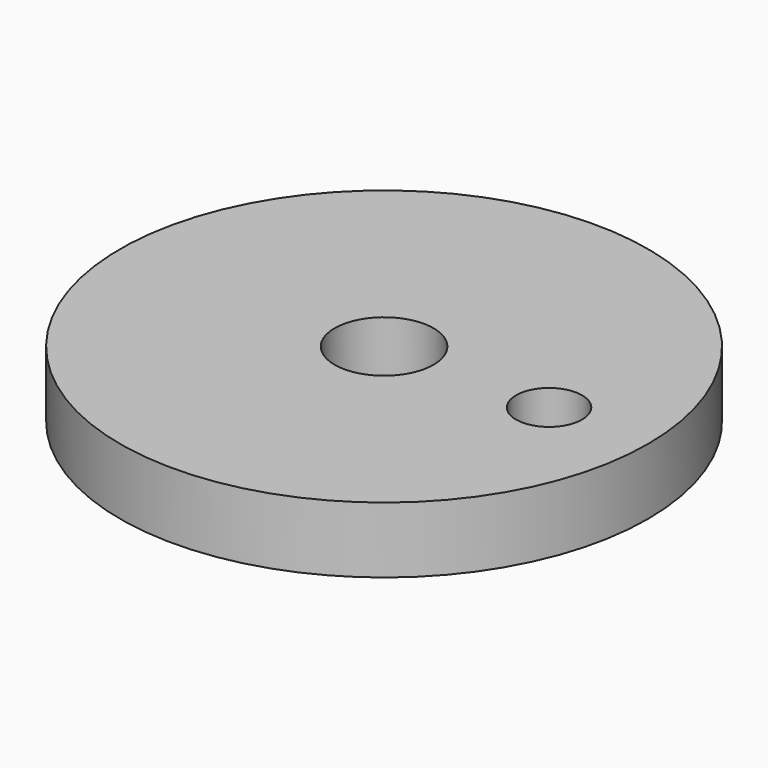
from build123d import *

# Parameters (mm, degrees)
F0_R     = 40
F1_DEPTH = 10
F4_D     = 10
F5_D     = 15


with BuildPart() as f1:
    # F0 (on Top) → F1 (new body)
    with BuildSketch(Plane.XY):
        Circle(F0_R)
    extrude(amount=F1_DEPTH)

    # F4 (through all)
    with Locations(Plane.XY.offset(10)):
        with Locations((25, 0)):
            Hole(F4_D / 2)

    # F5 (through all)
    with Locations(Plane.XY.offset(10)):
        with Locations((0, 0)):
            Hole(F5_D / 2)


solid = f1.part
